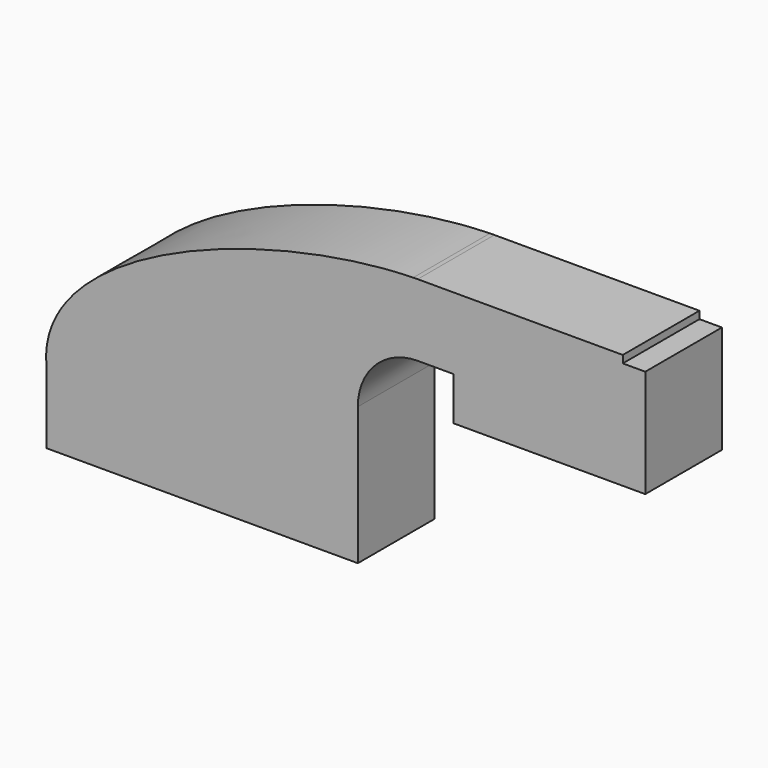
from build123d import *

# Parameters (mm, degrees)
F0_W     = 44.8372086644
F0_H     = 17.0784566257
F1_DEPTH = 25.4


with BuildPart() as f1:
    # F0 (on Front) → F1 (new body)
    with BuildSketch(Plane.XZ):
        Polygon((41.275, -9.525), (41.275, 9.525), (22.225, 9.525), (-41.275, 9.525), (-41.275, -9.525), align=None)
        with BuildLine():
            Line((22.225, 9.525), (41.275, 9.525))
            Line((41.275, 9.525), (41.275, 27.0002))
            ThreePointArc((41.275, 27.0002), (45.9246798487, 38.2255201513), (57.15, 42.8752))
            Line((57.15, 42.8752), (66.675, 42.8752))
            Line((66.675, 42.8752), (66.675, 59.9536566257))
            Line((66.675, 59.9536566257), (111.5122086644, 59.9536566257))
            Line((111.5122086644, 59.9536566257), (111.5122086644, 61.9252))
            Line((111.5122086644, 61.9252), (57.15, 61.9252))
            add(Edge.make_bspline(
                [(55.9560374295, 61.9047853489), (56.3562977469, 61.9137779441), (56.7543153906, 61.9205875429), (57.15, 61.9252)],
                knots=[110.380151694, 110.380151694, 110.380151694, 110.380151694, 111.5045361635, 111.5045361635, 111.5045361635, 111.5045361635], degree=3))
            ThreePointArc((55.9560374295, 61.9047853489), (32.0357135501, 51.2701040194), (22.225, 27.0002))
            Line((22.225, 27.0002), (22.225, 9.525))
        make_face()
        with BuildLine():
            Line((-41.275, 9.525), (22.225, 9.525))
            Line((22.225, 9.525), (22.225, 27.0002))
            ThreePointArc((22.225, 27.0002), (32.0357135501, 51.2701040194), (55.9560374295, 61.9047853489))
            add(Edge.make_bspline(
                [(-41.275, 9.525), (-44.2437611078, 39.1011486403), (16.6627211733, 61.0219876524), (55.9560374295, 61.9047853489)],
                knots=[0, 0, 0, 0, 110.380151694, 110.380151694, 110.380151694, 110.380151694], degree=3))
        make_face()
        with BuildLine():
            ThreePointArc((57.15, 61.9252), (56.5529314575, 61.9200959643), (55.9560374295, 61.9047853489))
            add(Edge.make_bspline(
                [(55.9560374295, 61.9047853489), (56.3562977469, 61.9137779441), (56.7543153906, 61.9205875429), (57.15, 61.9252)],
                knots=[110.380151694, 110.380151694, 110.380151694, 110.380151694, 111.5045361635, 111.5045361635, 111.5045361635, 111.5045361635], degree=3))
        make_face()
        with Locations((89.0936043322, 51.4144283129)):
            Rectangle(F0_W, F0_H)
        Polygon((111.5122086644, 42.8752), (66.675, 42.8752), (66.675, 31.3786566257), (117.475, 31.3786566257), (117.475, 59.9536566257), (111.5122086644, 59.9536566257), align=None)
    extrude(amount=F1_DEPTH)


solid = f1.part
